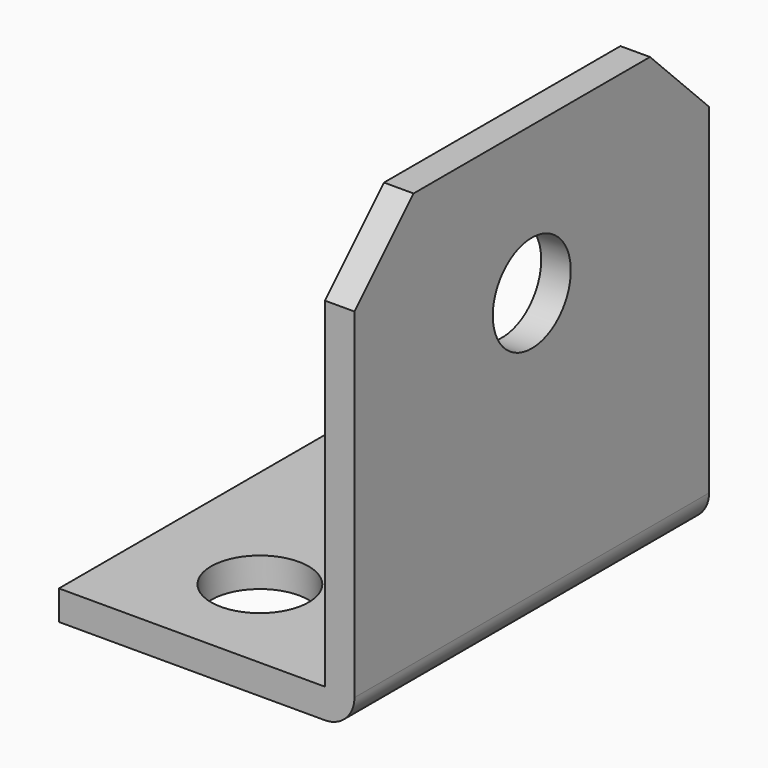
from build123d import *

# Parameters (mm, degrees)
F1_DEPTH = 30
F3_D     = 6.6
F5_D     = 6.6
F6_R     = 2
F7_SIZE  = 5


with BuildPart() as f1:
    # F0 (on Front) → F1 (new body)
    with BuildSketch(Plane.XZ):
        Polygon((-20, 0), (0, 0), (0, 30), (-2, 30), (-2, 2), (-20, 2), align=None)
    extrude(amount=F1_DEPTH)

    # F3 (through all)
    with Locations(Plane(origin=(0, 0, 0), x_dir=(1, 0, 0), z_dir=(0, 0, -1))):
        with Locations((-12, 23), (-12, 7)):
            Hole(F3_D / 2)

    # F5 (through all)
    with Locations(Plane.YZ):
        with Locations((-15, 20)):
            Hole(F5_D / 2)

    # F6
    f6_edges = [f1.edges().sort_by_distance(p)[0] for p in [
        (0, -15, 0),
    ]]
    fillet(f6_edges, radius=F6_R)

    # F7
    f7_edges = [f1.edges().sort_by_distance(p)[0] for p in [
        (-1, -30, 30),
        (-1, 0, 30),
    ]]
    chamfer(f7_edges, length=F7_SIZE)


solid = f1.part
